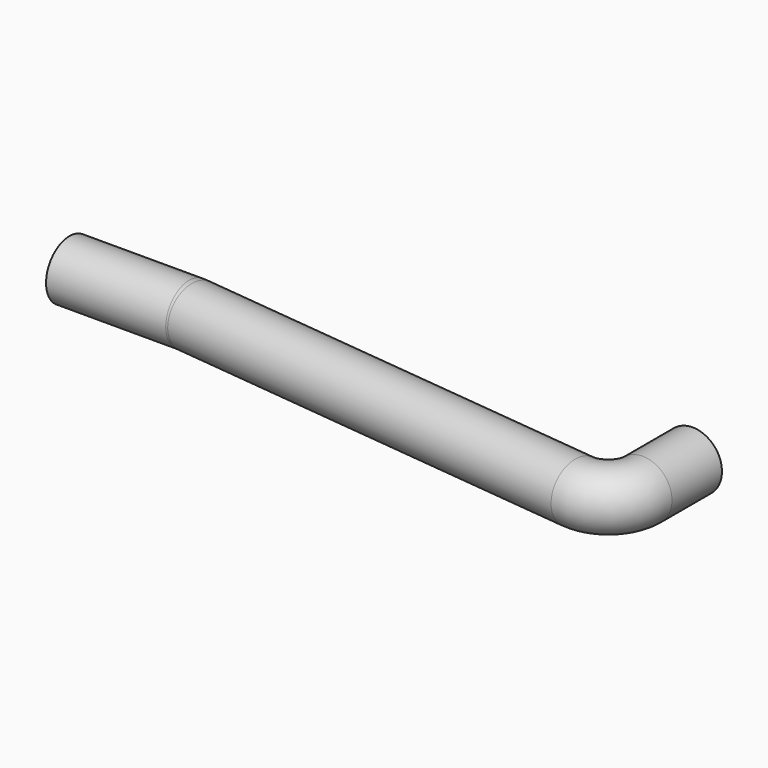
from build123d import *

# Parameters (mm, degrees)
F1_R   = 6
F1_R_2 = 5.75


with BuildPart() as f2:
    # F2: sweep along a path in F0
    with BuildLine(Plane.XY) as f2_path:
        Line((0, -4.5), (24.4662120984, -4.5))
        ThreePointArc((24.4662120984, -4.5), (25.3190585994, -4.5227457664), (26.1694802695, -4.5909183943))
        Line((26.1694802695, -4.5909183943), (111.8935457393, -13.768762586))
        ThreePointArc((111.8935457393, -13.768762586), (112.6684107043, -13.5182373829), (113, -12.7744449856))
        Line((113, -12.7744449856), (113, 0))
    # F1 (on Right) → F2 (sweep)
    with BuildSketch(Plane.YZ):
        with Locations((-10.5, 0)):
            Circle(F1_R)
        with Locations((-10.5, 0)):
            Circle(F1_R_2, mode=Mode.SUBTRACT)
    sweep(path=f2_path.line)


solid = f2.part
